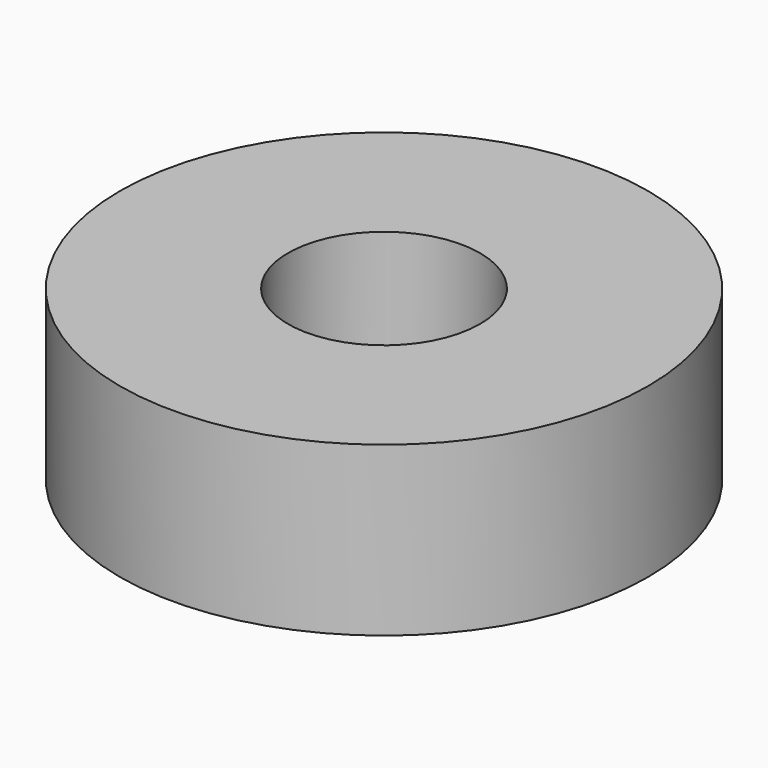
from build123d import *

# Parameters (mm, degrees)
SKETCH_R   = 11
SKETCH_R_2 = 4
PAD_DEPTH  = 7


with BuildPart() as part:
    # Sketch → Pad (new body)
    with BuildSketch(Plane.XY):
        Circle(SKETCH_R)
        Circle(SKETCH_R_2, mode=Mode.SUBTRACT)
    extrude(amount=PAD_DEPTH)


solid = part.part
